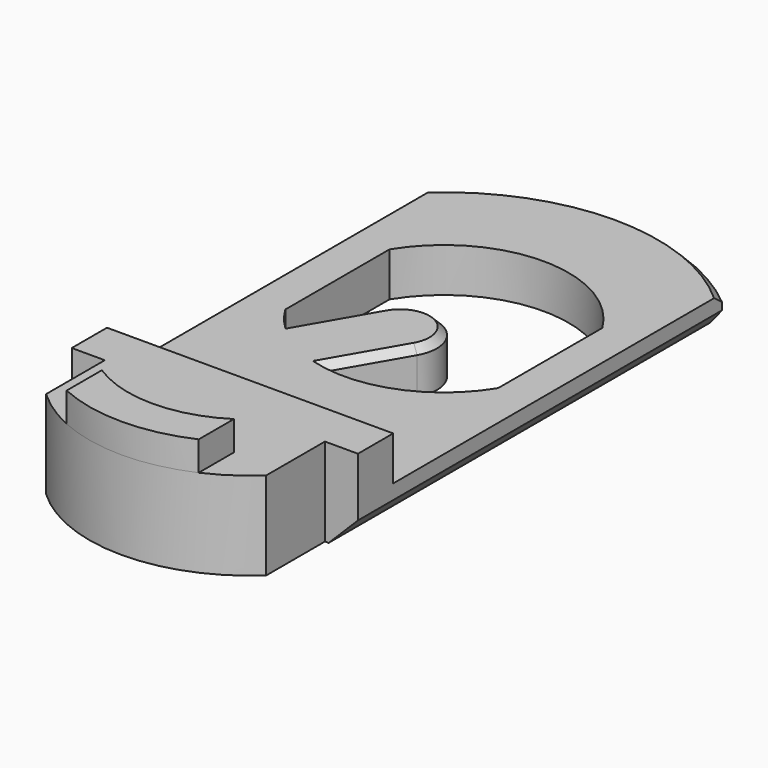
from build123d import *

# Parameters (mm, degrees)
EXTRUDE002_DEPTH = 2
EXTRUDE_DEPTH    = 3
CHAMFER_SIZE     = 2
CHAMFER001_SIZE  = 0.5
EXTRUDE001_DEPTH = 3


with BuildPart() as extrude002:
    # Sketch002 (on Face10 of Extrude001) → Extrude002 (new body)
    with BuildSketch(Plane.XY.offset(6)):
        with BuildLine():
            ThreePointArc((-4.5, -10), (0, -10.965856), (4.5, -10))
            Line((4.5, -7), (4.5, -10))
            ThreePointArc((-4.5, -7), (0, -8.321658), (4.5, -7))
            Line((-4.5, -7), (-4.5, -10))
        make_face()
    extrude(amount=EXTRUDE002_DEPTH)


with BuildPart() as chamfer001:
    # Sketch → Extrude (new body)
    with BuildSketch(Plane.XY):
        with BuildLine():
            Line((9.75, 28), (9.75, 0))
            Line((9.75, -3), (9.75, 0))
            Line((7.5, -3), (9.75, -3))
            Line((7.5, -8), (7.5, -3))
            ThreePointArc((-7.5, -8), (0, -10.965856), (7.5, -8))
            Line((-7.5, -3), (-7.5, -8))
            Line((-9.75, -3), (-7.5, -3))
            Line((-9.75, 0), (-9.75, -3))
            Line((-9.75, 0), (-9.75, 28))
            ThreePointArc((9.75, 28), (0, 31.576886), (-9.75, 28))
        make_face()
        with BuildLine():
            ThreePointArc((7.25, 20.93706), (0, 25), (-7.25, 20.93706))
            Line((-7.25, 20.93706), (-7.25, 12.06294))
            ThreePointArc((-7.25, 12.06294), (-6.772193, 11.363133), (-6.227082, 10.714376))
            Line((-3.415063, 15.584937), (-6.227082, 10.714376))
            ThreePointArc((0.915063, 13.084936), (0, 16.5), (-3.415063, 15.584937))
            Line((0.915063, 13.084936), (-1.896956, 8.214376))
            ThreePointArc((-1.896956, 8.214376), (3.296457, 8.665246), (7.25, 12.06294))
            Line((7.25, 20.93706), (7.25, 12.06294))
        make_face(mode=Mode.SUBTRACT)
    extrude(amount=EXTRUDE_DEPTH)

    # Chamfer
    chamfer_edges = [chamfer001.edges().sort_by_distance(p)[0] for p in [
        (-9.75, 14, 0),
        (9.75, 14, 0),
        (9.75, -1.5, 0),
        (-9.75, -1.5, 0),
    ]]
    chamfer(chamfer_edges, length=CHAMFER_SIZE)

    # Chamfer001
    chamfer001_edges = [chamfer001.edges().sort_by_distance(p)[0] for p in [
        (0, 31.576886, 3),
        (-4.821073, 13.149656, 3),
    ]]
    chamfer(chamfer001_edges, length=CHAMFER001_SIZE)


with BuildPart() as fusion:
    # Sketch001 (on Face4 of Chamfer) → Extrude001 (new body)
    with BuildSketch(Plane.XY.offset(3)):
        with BuildLine():
            Line((9.75, 0), (-9.75, 0))
            Line((-9.75, 0), (-9.75, -3))
            Line((-9.75, -3), (-7.5, -3))
            Line((-7.5, -3), (-7.5, -8))
            ThreePointArc((-7.5, -8), (0, -10.965856), (7.5, -8))
            Line((7.5, -3), (7.5, -8))
            Line((9.75, -3), (7.5, -3))
            Line((9.75, 0), (9.75, -3))
        make_face()
    extrude(amount=EXTRUDE001_DEPTH)

    # Fusion: union Extrude002, Chamfer001
    add(extrude002.part)
    add(chamfer001.part)


solid = fusion.part
